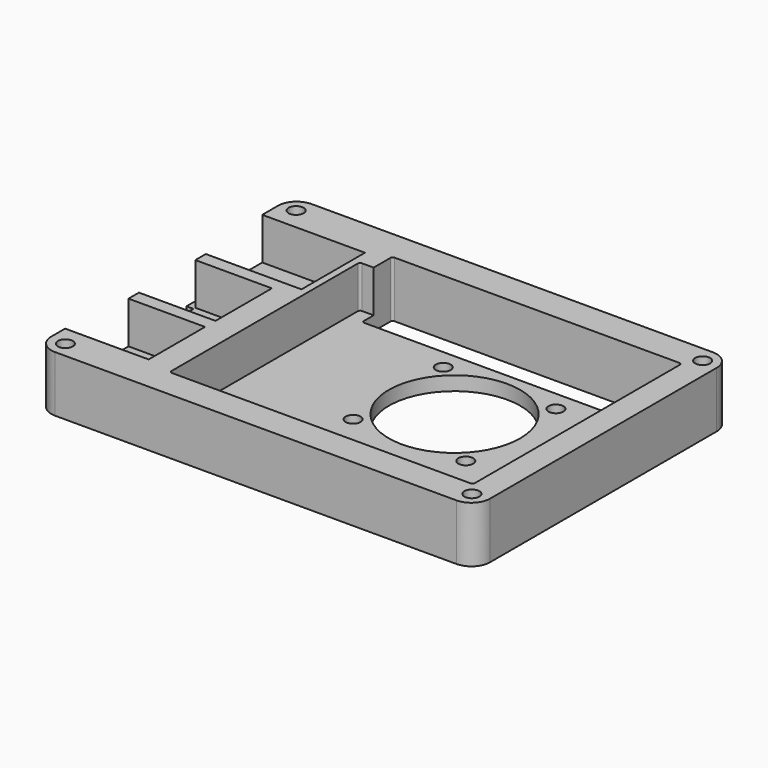
from build123d import *

# Parameters (mm, degrees)
SKETCH_R     = 1.6
SKETCH_R_2   = 14.075
SKETCH_W     = 58.5
SKETCH_H     = 8.12
PAD_DEPTH    = 12
FILLET_R     = 0.5
FILLET001_R  = 4
SKETCH001_W  = 16.4
SKETCH001_H  = 15.1
POCKET_DEPTH = 9


with BuildPart() as part:
    # Sketch → Pad (new body)
    with BuildSketch(Plane.XY):
        Polygon((0, 0), (94, 0), (94, 68.7), (0, 68.7), (0, 40.2), (1.5, 40.2), (1.5, 7.7), (0, 7.7), align=None)
        with Locations((3.45, 65.25)):
            Circle(SKETCH_R, mode=Mode.SUBTRACT)
        with Locations((90.55, 65.25)):
            Circle(SKETCH_R, mode=Mode.SUBTRACT)
        with Locations((90.55, 3.45)):
            Circle(SKETCH_R, mode=Mode.SUBTRACT)
        with Locations((3.45, 3.45)):
            Circle(SKETCH_R, mode=Mode.SUBTRACT)
        with Locations((59.425, 37.705)):
            Circle(SKETCH_R_2, mode=Mode.SUBTRACT)
        with Locations((47.351152, 25.631152)):
            Circle(SKETCH_R, mode=Mode.SUBTRACT)
        with Locations((71.498848, 25.631152)):
            Circle(SKETCH_R, mode=Mode.SUBTRACT)
        with Locations((71.498848, 49.778848)):
            Circle(SKETCH_R, mode=Mode.SUBTRACT)
        with Locations((47.351152, 49.778848)):
            Circle(SKETCH_R, mode=Mode.SUBTRACT)
        with Locations((55.75, 58.14)):
            Rectangle(SKETCH_W, SKETCH_H, mode=Mode.SUBTRACT)
    extrude(amount=PAD_DEPTH)

    # Fillet
    fillet_edges = [part.edges().sort_by_distance(p)[0] for p in [
        (85, 62.2, 6),
        (85, 54.08, 6),
        (26.5, 54.08, 6),
        (26.5, 62.2, 6),
    ]]
    fillet(fillet_edges, radius=FILLET_R)

    # Fillet001
    fillet001_edges = [part.edges().sort_by_distance(p)[0] for p in [
        (0, 68.7, 6),
        (94, 68.7, 6),
        (94, 0, 6),
        (0, 0, 6),
    ]]
    fillet(fillet001_edges, radius=FILLET001_R)

    # Sketch001 (on Face31 of Fillet001) → Pocket (cut)
    with BuildSketch(Plane.XY.offset(12)):
        with BuildLine():
            Line((26.5, 61.7), (26.5, 57.2))
            Line((26.5, 57.2), (24, 57.2))
            ThreePointArc((24, 57.2), (23.646447, 57.053553), (23.5, 56.7))
            Line((23.5, 56.7), (23.5, 6.8))
            ThreePointArc((23.5, 6.8), (23.646447, 6.446447), (24, 6.3))
            Line((24, 6.3), (88, 6.3))
            ThreePointArc((88, 6.3), (88.353553, 6.446447), (88.5, 6.8))
            Line((88.5, 6.8), (88.5, 61.7))
            ThreePointArc((88.5, 61.7), (88.353553, 62.053553), (88, 62.2))
            Line((88, 62.2), (27, 62.2))
            ThreePointArc((27, 62.2), (26.646447, 62.053553), (26.5, 61.7))
        make_face()
        Polygon((0, 60.5), (22, 60.5), (22, 43.5), (1.5, 43.5), (1.5, 40.7), (17.9, 40.7), (17.9, 25.6), (1.5, 25.6), (1.5, 40.2), (0, 40.2), align=None)
        with Locations((9.7, 15.25)):
            Rectangle(SKETCH001_W, SKETCH001_H)
    extrude(amount=-POCKET_DEPTH, mode=Mode.SUBTRACT)


solid = part.part
